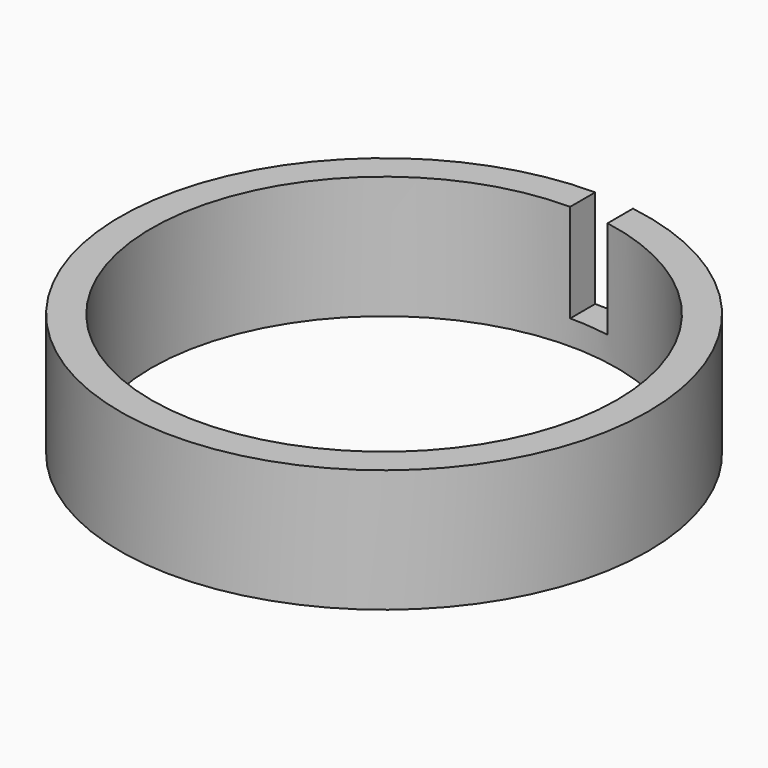
from build123d import *

# Parameters (mm, degrees)
F0_R     = 53.731796632
F0_R_2   = 47.3494506103
F1_DEPTH = 25
F3_DEPTH = 20


with BuildPart() as f1:
    # F0 (on Top) → F1 (new body)
    with BuildSketch(Plane.XY):
        with Locations((0, 17.1008221805)):
            Circle(F0_R)
        with Locations((0, 17.1008221805)):
            Circle(F0_R_2, mode=Mode.SUBTRACT)
    extrude(amount=F1_DEPTH)

    # F2 (on face) → F3 (cut)
    with BuildSketch(Plane.XY.offset(25)):
        with BuildLine():
            Line((0, 70.8326188125), (0, 64.4502727909))
            ThreePointArc((0, 64.4502727909), (4.1053363789, 64.2719646971), (8.1797530875, 63.7383833574))
            Line((8.1797530875, 63.7383833574), (8.1797530875, 70.2063549312))
            ThreePointArc((8.1797530875, 70.2063549312), (4.1018461399, 70.6758240708), (0, 70.8326188125))
        make_face()
    extrude(amount=-F3_DEPTH, mode=Mode.SUBTRACT)


solid = f1.part
